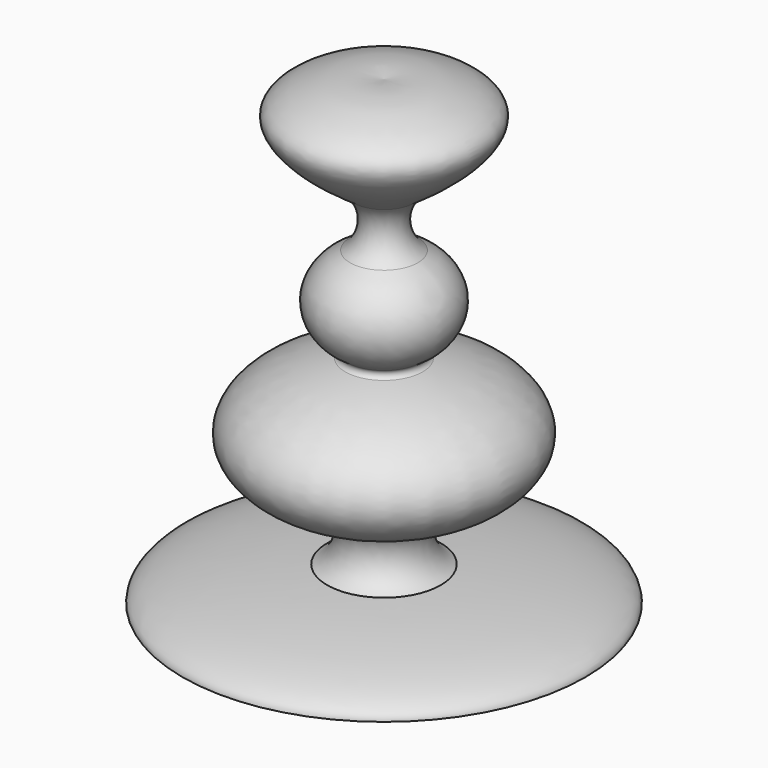
from build123d import *


with BuildPart() as f1:
    # F0 (on Front) → F1 (revolve)
    with BuildSketch(Plane.XZ):
        with BuildLine():
            Line((0, -9.4788792344), (10.0229945814, -9.4788792344))
            add(Edge.make_bspline(
                [(10.0229945814, -9.4788792344), (10.0229945814, -8.1570714362), (2.8280877488, -7.7841102008)],
                knots=[0, 0, 0, 1.2847515188, 1.2847515188, 1.2847515188], degree=2, weights=[1, 0.8006747029, 1]))
            ThreePointArc((2.8280877488, -7.7841102008), (1.9660140965, -6.3810340586), (2.8153684601, -4.9702219491))
            add(Edge.make_bspline(
                [(2.8153684601, -4.9702219491), (18.5526569864, -1.6263295645), (1.9287710757, 1.2658312138)],
                knots=[5.1641836446, 5.1641836446, 5.1641836446, 7.5744478818, 7.5744478818, 7.5744478818], degree=2, weights=[1, 0.3575696683, 1]))
            ThreePointArc((1.9287710757, 1.2658312138), (1.7923514955, 1.4790289672), (1.9218109572, 1.6965234077))
            add(Edge.make_bspline(
                [(1.9218109572, 1.6965234077), (5.8923067099, 3.9696594113), (1.6880880576, 5.9663457796)],
                knots=[5.3419054692, 5.3419054692, 5.3419054692, 7.3104614277, 7.3104614277, 7.3104614277], degree=2, weights=[1, 0.55346461, 1]))
            ThreePointArc((1.6880880576, 5.9663457796), (1.0227510376, 7.206402764), (1.5086905295, 8.527113741))
            add(Edge.make_bspline(
                [(1.5086905295, 8.527113741), (2.4538067646, 9.1845577191), (4.0781462083, 10.3144845428), (5.469044603, 12.4028812679), (2.0152173621, 13.701813068), (0.63513135, 13.5350725807), (0, 13.4583367035)],
                knots=[0, 0, 0, 0, 0.2886180008, 0.4960380379, 0.7680709474, 1, 1, 1, 1], degree=3))
            Line((0, 13.4583367035), (0, -9.4788792344))
        make_face()
    revolve(axis=Axis((0, 0, 0.9112141111), (0, 0, -1)))


solid = f1.part
